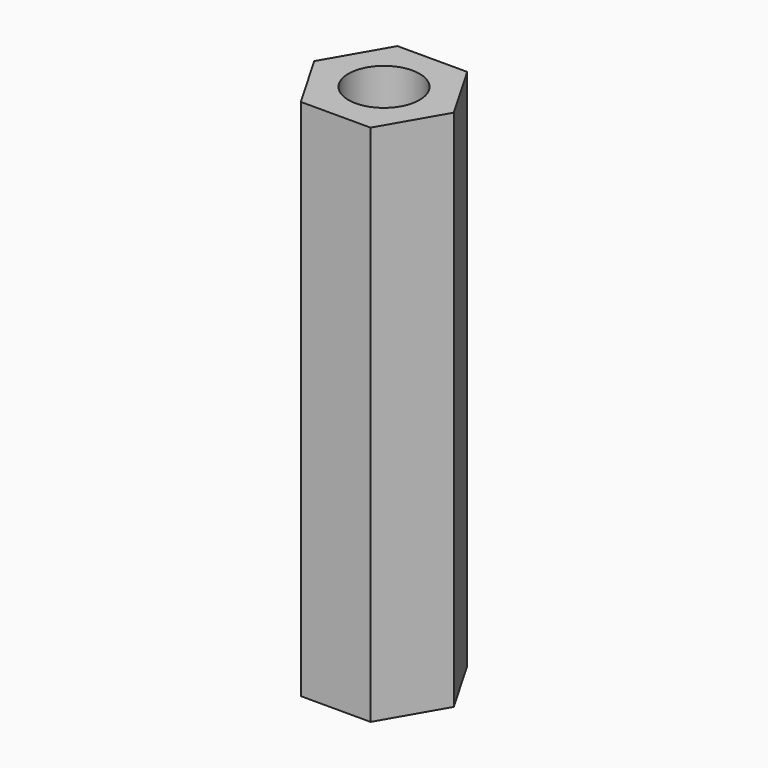
from build123d import *

# Parameters (mm, degrees)
SKETCH_R  = 2.55
PAD_DEPTH = 37.5
FILLET_R  = 1


with BuildPart() as part:
    # Sketch → Pad (new body)
    with BuildSketch(Plane.XY):
        Polygon((-5, 0), (-2.5, -4.330127), (2.5, -4.330127), (5, 0), (2.5, 4.330127), (-2.5, 4.330127), align=None)
        Circle(SKETCH_R, mode=Mode.SUBTRACT)
    extrude(amount=PAD_DEPTH)

    # Fillet
    fillet_edges = [part.edges().sort_by_distance(p)[0] for p in [
        (-2.55, 0, 0),
    ]]
    fillet(fillet_edges, radius=FILLET_R)


solid = part.part
